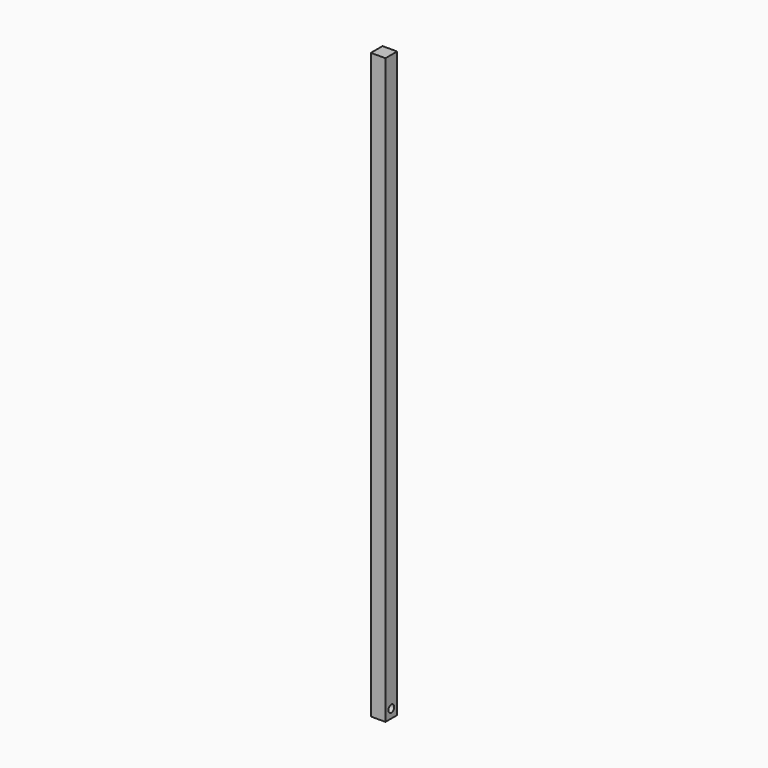
from build123d import *

# Parameters (mm, degrees)
F0_W     = 50
F0_H     = 50
F1_DEPTH = 2000
F2_R     = 12.5
F3_DEPTH = 50


with BuildPart() as f1:
    # F0 (on Top) → F1 (new body)
    with BuildSketch(Plane.XY):
        Rectangle(F0_W, F0_H)
    extrude(amount=-F1_DEPTH)

    # F2 (on face) → F3 (cut, through all)
    with BuildSketch(Plane.YZ.offset(25)):
        with Locations((0, -1970)):
            Circle(F2_R)
    extrude(amount=-F3_DEPTH, mode=Mode.SUBTRACT)


solid = f1.part
